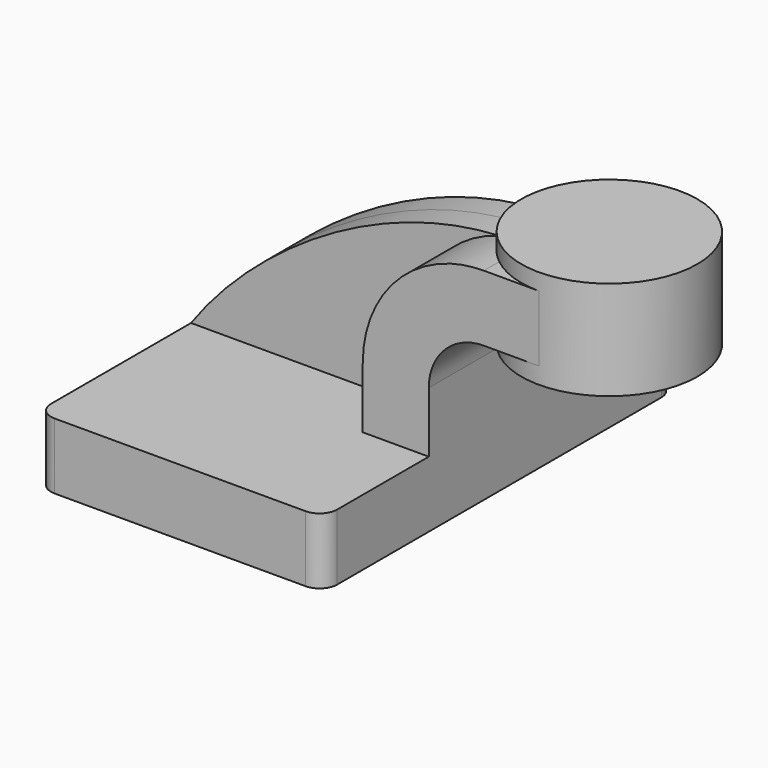
from build123d import *

# Parameters (mm, degrees)
F1_DEPTH = 63.5
F2_DEPTH = 25.4
F3_DEPTH = 7.9375
F5_R     = 5.08


with BuildPart() as f1:
    # F0 (on Front) → F1 (new body, symmetric)
    with BuildSketch(Plane.XZ):
        Polygon((-41.275, -9.525), (41.275, -9.525), (41.275, 9.525), (22.225, 9.525), (-41.275, 9.525), align=None)
    extrude(amount=F1_DEPTH, both=True)

    # F0 (on Front) → F2 (join, symmetric)
    with BuildSketch(Plane.XZ):
        with BuildLine():
            ThreePointArc((57.15, 61.9252), (52.3417131244, 61.5926269504), (47.625, 60.6012416505))
            Line((47.625, 60.6012416505), (47.625, 39.7002))
            ThreePointArc((47.625, 39.7002), (52.1298842145, 42.0605473566), (57.15, 42.8752))
            Line((57.15, 42.8752), (73.025, 42.8752))
            Line((73.025, 42.8752), (73.025, 61.9252))
            Line((73.025, 61.9252), (57.15, 61.9252))
        make_face()
        with BuildLine():
            Line((22.225, 9.525), (41.275, 9.525))
            Line((41.275, 9.525), (41.275, 27.0002))
            ThreePointArc((41.275, 27.0002), (42.9509683429, 34.0997158286), (47.625, 39.7002))
            Line((47.625, 39.7002), (47.625, 60.6012416505))
            ThreePointArc((47.625, 60.6012416505), (29.28948807, 48.0607674188), (22.225, 27.0002))
            Line((22.225, 27.0002), (22.225, 9.525))
        make_face()
    extrude(amount=F2_DEPTH, both=True)

    # F0 (on Front) → F3 (join, symmetric)
    with BuildSketch(Plane.XZ):
        with BuildLine():
            add(Edge.make_bspline(
                [(-41.275, 9.525), (-24.0416502966, 33.8548284783), (10.9341804068, 58.6884807018), (47.625, 60.6012416505)],
                knots=[0, 0, 0, 0, 102.5280081789, 102.5280081789, 102.5280081789, 102.5280081789], degree=3))
            Line((-41.275, 9.525), (22.225, 9.525))
            Line((22.225, 9.525), (22.225, 27.0002))
            ThreePointArc((22.225, 27.0002), (29.28948807, 48.0607674188), (47.625, 60.6012416505))
        make_face()
    extrude(amount=F3_DEPTH, both=True)

    # F0 (on Front) → F4 (revolve)
    with BuildSketch(Plane.XZ):
        Polygon((98.425, 66.675), (73.025, 66.675), (73.025, 61.9252), (73.025, 42.8752), (73.025, 38.1), (98.425, 38.1), align=None)
    revolve(axis=Axis((73.025, 0, 52.3875), (0, 0, 1)))

    # F5
    f5_edges = [f1.edges().sort_by_distance(p)[0] for p in [
        (-41.275, -63.5, 0),
        (-41.275, 63.5, 0),
        (41.275, 63.5, 0),
        (41.275, -63.5, 0),
    ]]
    fillet(f5_edges, radius=F5_R)


solid = f1.part
